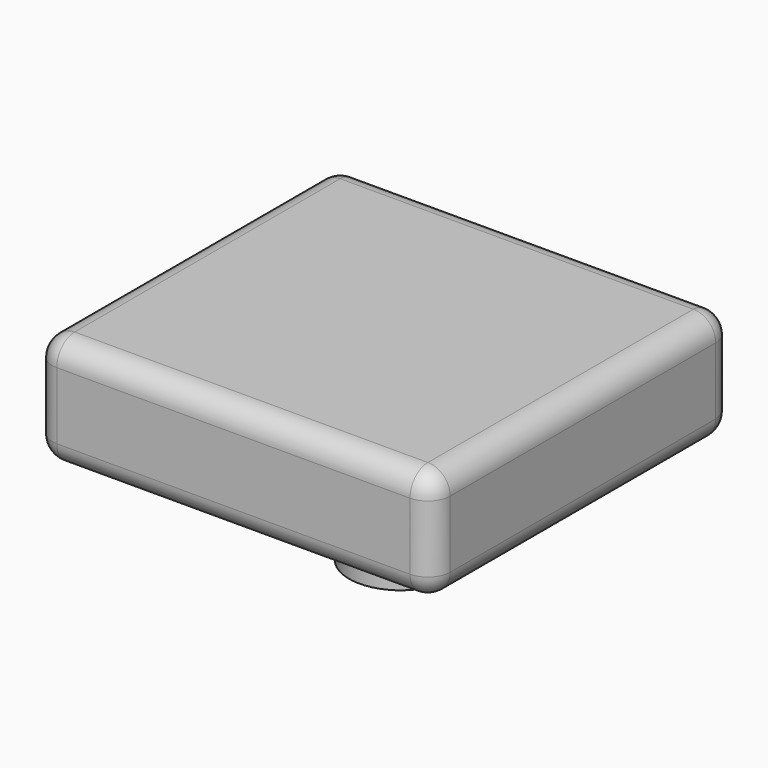
from build123d import *

# Parameters (mm, degrees)
F0_W     = 90.572778
F0_H     = 85.716326
F1_DEPTH = 25.4
F2_R     = 5.08
F3_R     = 11.744353
F4_DEPTH = 25.4


with BuildPart() as f1:
    # F0 (on Top) → F1 (new body)
    with BuildSketch(Plane.XY):
        with Locations((1.0927, 8.741608)):
            Rectangle(F0_W, F0_H)
    extrude(amount=F1_DEPTH)

    # F2
    f2_edges = [f1.edges().sort_by_distance(p)[0] for p in [
        (46.379089, 51.599771, 12.7),
        (-44.193689, 51.599771, 12.7),
        (1.0927, 51.599771, 0),
        (1.0927, 51.599771, 25.4),
        (46.379089, -34.116555, 12.7),
        (46.379089, 8.741608, 0),
        (46.379089, 8.741608, 25.4),
        (-44.193689, -34.116555, 12.7),
        (-44.193689, 8.741608, 0),
        (-44.193689, 8.741608, 25.4),
        (1.0927, -34.116555, 0),
        (1.0927, -34.116555, 25.4),
    ]]
    fillet(f2_edges, radius=F2_R)

    # F3 (on face) → F4 (join)
    with BuildSketch(Plane(origin=(0, 0, 0), x_dir=(1, 0, 0), z_dir=(0, 0, -1))):
        with Locations((0, -14.89311)):
            Circle(F3_R)
    extrude(amount=F4_DEPTH)


solid = f1.part
